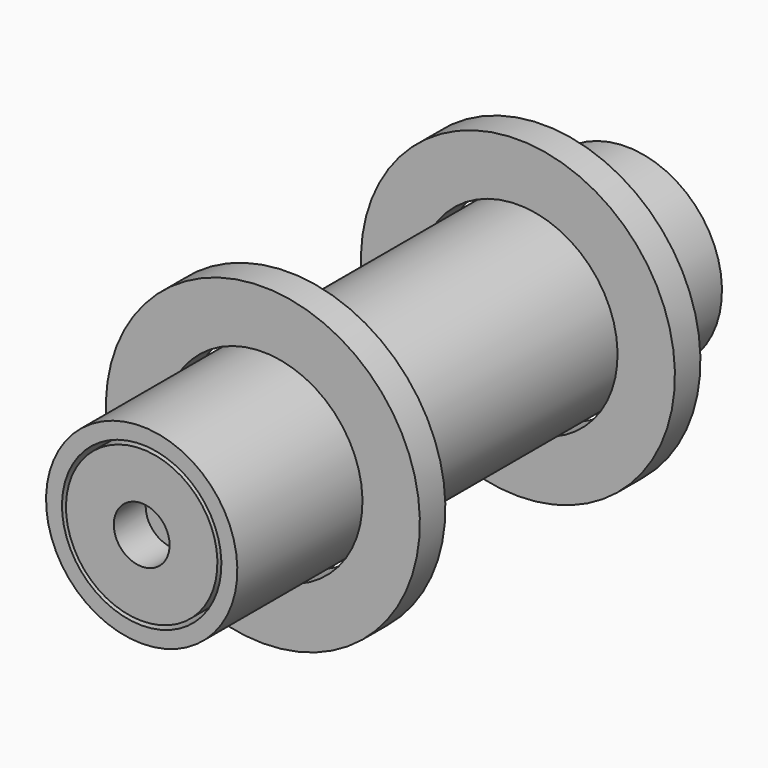
from build123d import *

# Parameters (mm, degrees)
F0_W = 70
F0_H = 9
F2_W = 76
F2_H = 2
F4_W = 4
F4_H = 7.2
F6_W = 5
F6_H = 6


with BuildPart() as f1:
    # F0 (on Right) → F1 (revolve)
    with BuildSketch(Plane.YZ):
        with Locations((0, -4.5)):
            Rectangle(F0_W, F0_H)
    revolve(axis=Axis((0, 0, 0), (0, -1, 0)))


with BuildPart() as f3:
    # F2 (on Right) → F3 (revolve)
    with BuildSketch(Plane.YZ):
        with Locations((-3, -11)):
            Rectangle(F2_W, F2_H)
    revolve(axis=Axis((0, 2.477687, 0), (0, -1, 0)))


with BuildPart() as f5:
    # F4 (on Right) → F5 (revolve)
    with BuildSketch(Plane.YZ):
        with Locations((-20, -16.1)):
            Rectangle(F4_W, F4_H)
        with Locations((20, -16.1)):
            Rectangle(F4_W, F4_H)
    revolve(axis=Axis((0, 2.477687, 0), (0, -1, 0)))


with BuildPart() as f7:
    # F6 (on Right) → F7 (revolve)
    with BuildSketch(Plane.YZ):
        with Locations((-38.5, -6.5)):
            Rectangle(F6_W, F6_H)
    revolve(axis=Axis((0, 2.477687, 0), (0, -1, 0)))


solid = Compound([f1.part, f3.part, f5.part, f7.part])
